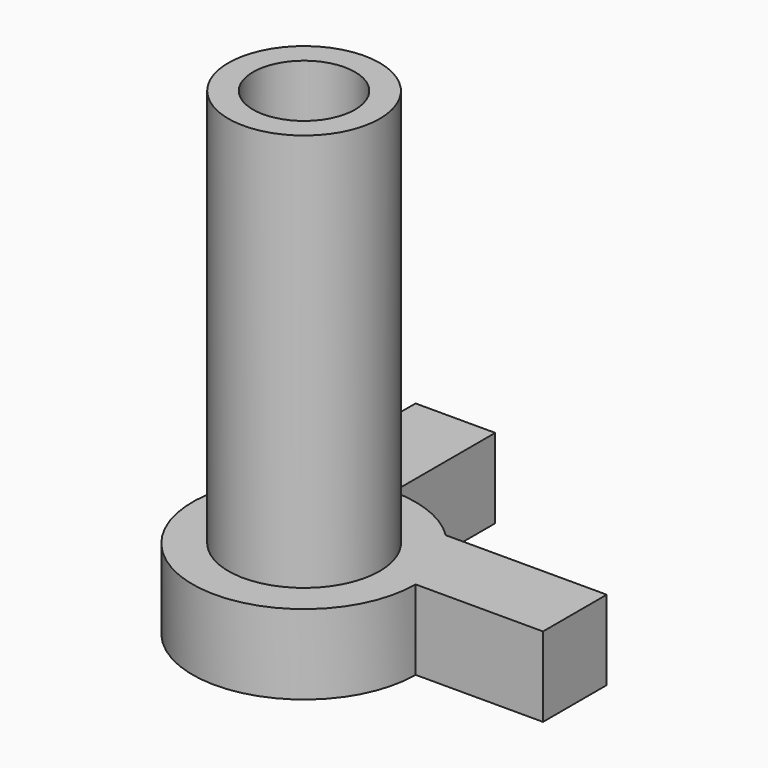
from build123d import *

# Parameters (mm, degrees)
CYLINDER_R             = 3.2
CYLINDER_DEPTH         = 30
BOX001_W               = 15
BOX001_H               = 5
BOX001_DEPTH           = 5
BOX001_PLACEMENT_ANGLE = 90
BOX_W                  = 15
BOX_H                  = 5
BOX_DEPTH              = 5
CYLINDER001_R          = 4.75
CYLINDER001_DEPTH      = 30
CYLINDER002_R          = 7
CYLINDER002_DEPTH      = 5


with BuildPart() as cylinder:
    # Cylinder → Cylinder (new body)
    with BuildSketch(Plane.XY):
        Circle(CYLINDER_R)
    extrude(amount=CYLINDER_DEPTH)


with BuildPart() as box001:
    # Box001 → Box001 (new body)
    with BuildSketch(Plane.XY):
        with Locations((7.5, 2.5)):
            Rectangle(BOX001_W, BOX001_H)
    extrude(amount=BOX001_DEPTH)


with BuildPart() as box001_1:
    # Box001 placement: moved
    add(box001.part.rotate(Axis((0, 0, 0), (0, 0, 1)), BOX001_PLACEMENT_ANGLE))


with BuildPart() as box:
    # Box → Box (new body)
    with BuildSketch(Plane.XY):
        with Locations((7.5, 2.5)):
            Rectangle(BOX_W, BOX_H)
    extrude(amount=BOX_DEPTH)


with BuildPart() as cylinder001:
    # Cylinder001 → Cylinder001 (new body)
    with BuildSketch(Plane.XY):
        Circle(CYLINDER001_R)
    extrude(amount=CYLINDER001_DEPTH)


with BuildPart() as cut:
    # Cylinder002 → Cylinder002 (new body)
    with BuildSketch(Plane.XY):
        Circle(CYLINDER002_R)
    extrude(amount=CYLINDER002_DEPTH)

    # Fusion: union Cylinder001
    add(cylinder001.part)

    # Fusion001: union Box001, Box
    add(box001_1.part)
    add(box.part)

    # Cut: cut Cylinder
    add(cylinder.part, mode=Mode.SUBTRACT)


solid = cut.part
